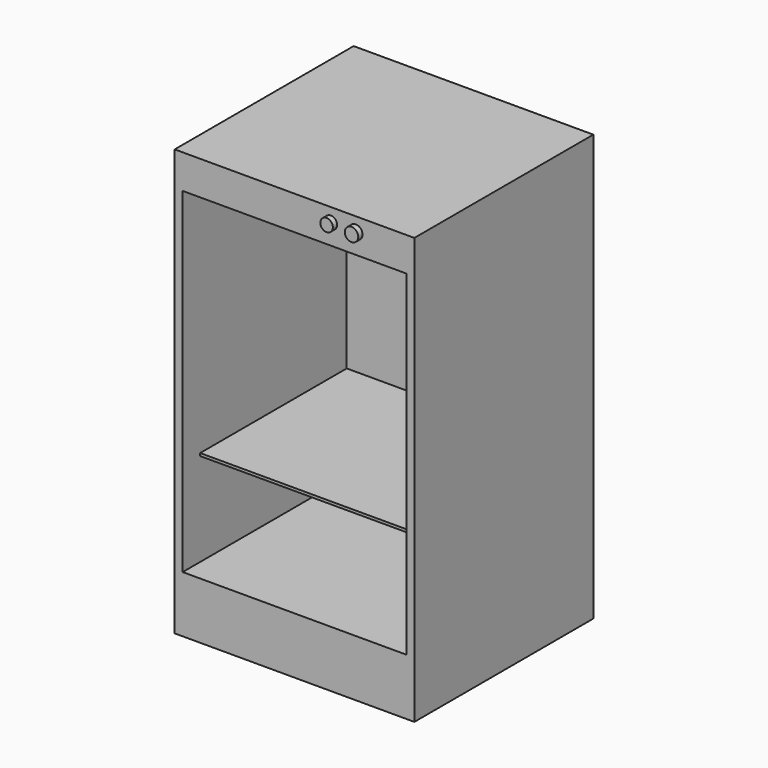
from build123d import *

# Parameters (mm, degrees)
F0_W     = 450
F0_H     = 420
F1_DEPTH = 800
F2_W     = 420
F2_H     = 630
F3_DEPTH = 385
F4_W     = 420
F4_H     = 5
F5_DEPTH = 344
F6_R     = 11.754652
F6_R_2   = 12.655136
F7_DEPTH = 10


with BuildPart() as f1:
    # F0 (on Top) → F1 (new body)
    with BuildSketch(Plane.XY):
        Rectangle(F0_W, F0_H)
    extrude(amount=F1_DEPTH)

    # F2 (on face) → F3 (cut)
    with BuildSketch(Plane.XZ.offset(210)):
        with Locations((0, 421.241939)):
            Rectangle(F2_W, F2_H)
    extrude(amount=-F3_DEPTH, mode=Mode.SUBTRACT)

    # F4 (on face) → F5 (join)
    with BuildSketch(Plane.XZ.offset(-175)):
        with Locations((0, 283.817353)):
            Rectangle(F4_W, F4_H)
    extrude(amount=F5_DEPTH)

    # F6 (on face) → F7 (join)
    with BuildSketch(Plane.XZ.offset(210)):
        with Locations((68.192616, 774.359405)):
            Circle(F6_R)
        with Locations((115.024745, 773.97877)):
            Circle(F6_R_2)
    extrude(amount=F7_DEPTH)


solid = f1.part
